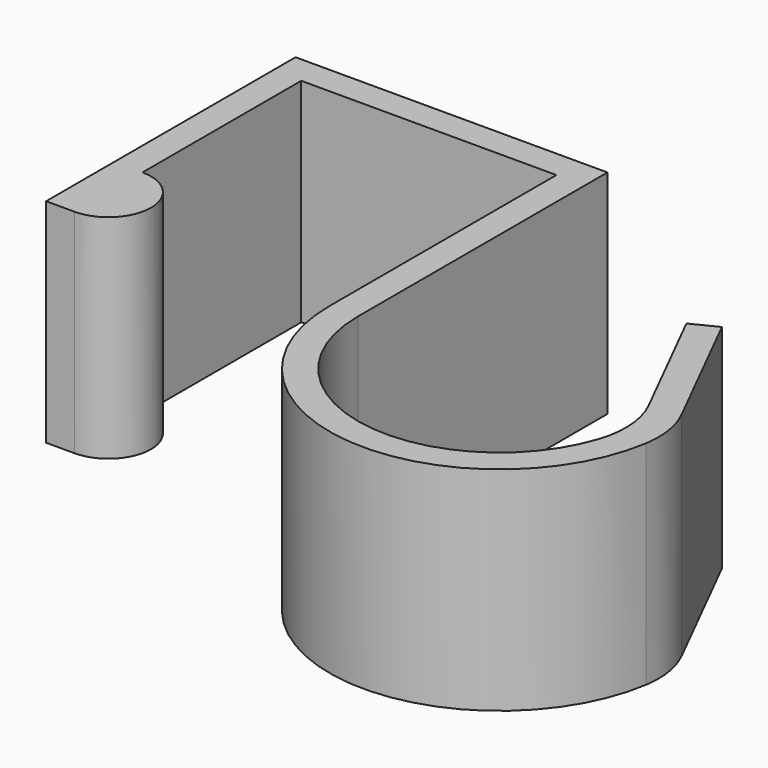
from build123d import *

# Parameters (mm, degrees)
F1_DEPTH = 15


with BuildPart() as f1:
    # F0 (on Top) → F1 (new body)
    with BuildSketch(Plane.XY):
        with BuildLine():
            Line((0, 22), (0, 0))
            Line((0, 0), (2, 0))
            ThreePointArc((2, 0), (5, 3), (2, 6))
            Line((2, 6), (2, 20))
            Line((2, 20), (20, 20))
            Line((20, 20), (20, 0))
            ThreePointArc((20, 0), (31.051796, -11.962479), (43.850152, -1.890478))
            ThreePointArc((43.850152, -1.890478), (43.854746, 0.081043), (43.254428, 1.958949))
            Line((43.254428, 1.958949), (38.442937, 11.542894))
            Line((38.442937, 11.542894), (36.655541, 10.645556))
            Line((36.655541, 10.645556), (41.142232, 1.708576))
            ThreePointArc((41.142232, 1.708576), (41.79999, -0.672597), (41.499315, -3.124582))
            ThreePointArc((41.499315, -3.124582), (30.417779, -9.874035), (22, 0))
            Line((22, 0), (22, 22))
            Line((22, 22), (0, 22))
        make_face()
    extrude(amount=F1_DEPTH)


solid = f1.part
